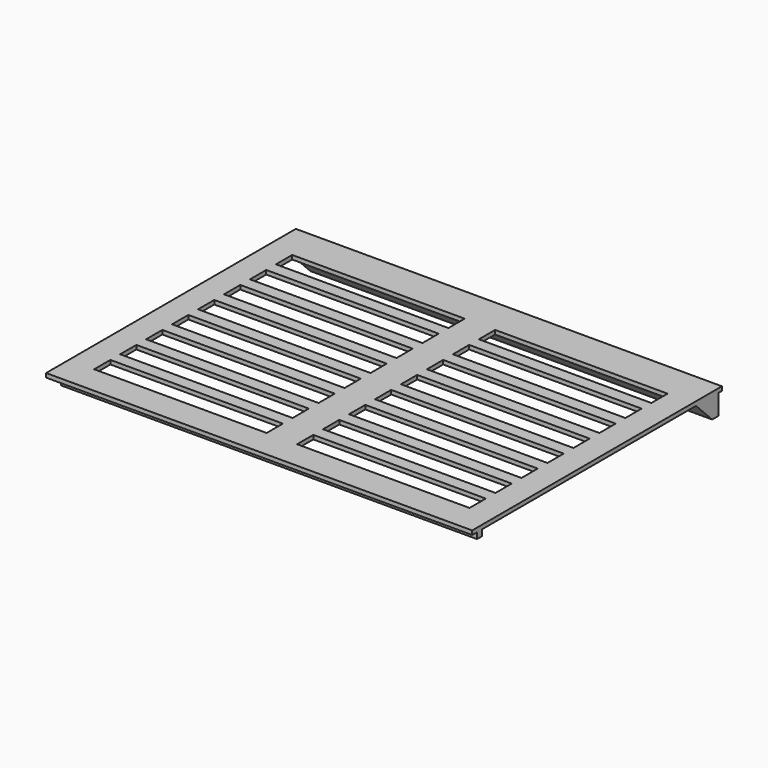
from build123d import *

# Parameters (mm, degrees)
BOX006_W               = 85
BOX006_H               = 10
BOX006_DEPTH           = 10
ARRAY_X_COUNT          = 2
ARRAY_X_PITCH          = 100
ARRAY_Y_COUNT          = 8
ARRAY_Y_PITCH          = 16
BOX004_W               = 220
BOX004_H               = 36
BOX004_DEPTH           = 10
BOX005_W               = 220
BOX005_H               = 10
BOX005_DEPTH           = 27
BOX003_W               = 198
BOX003_H               = 14.14
BOX003_DEPTH           = 14.14
BOX003_ROLL_ANGLE      = 45
CUT001_PLACEMENT_ANGLE = 180
BOX001_W               = 198
BOX001_H               = 4
BOX001_DEPTH           = 10
BOX002_W               = 205
BOX002_H               = 3
BOX002_DEPTH           = 3
BOX_W                  = 210
BOX_H                  = 153.85
BOX_DEPTH              = 2


with BuildPart() as array:
    # Box006 → Box006 (new body)
    with BuildSketch(Plane(origin=(12.5, 14, 0), x_dir=(1, 0, 0), z_dir=(0, 0, 1))):
        with Locations((42.5, 5)):
            Rectangle(BOX006_W, BOX006_H)
    extrude(amount=BOX006_DEPTH)

    # Array X: Array ×2


with BuildPart() as array_1:
    add(array.part)
    with Locations(*[(i * ARRAY_X_PITCH, 0, 0) for i in range(1, ARRAY_X_COUNT)]):
        add(array.part)

    # Array Y: Array ×8


with BuildPart() as array_2:
    add(array_1.part)
    with Locations(*[(0, i * ARRAY_Y_PITCH, 0) for i in range(1, ARRAY_Y_COUNT)]):
        add(array_1.part)


with BuildPart() as array_3:
    # Array placement: moved
    add(array_2.part.moved(Location((0, 0, -4))))


with BuildPart() as cube001:
    # Box004 → Box004 (new body)
    with BuildSketch(Plane(origin=(-6, 76, 40), x_dir=(1, 0, 0), z_dir=(0, 0, 1))):
        with Locations((110, 18)):
            Rectangle(BOX004_W, BOX004_H)
    extrude(amount=BOX004_DEPTH)


with BuildPart() as cube002:
    # Box005 → Box005 (new body)
    with BuildSketch(Plane(origin=(-7, 110, 72), x_dir=(1, 0, 0), z_dir=(0, 0, -1))):
        with Locations((110, 5)):
            Rectangle(BOX005_W, BOX005_H)
    extrude(amount=BOX005_DEPTH)


with BuildPart() as cut001:
    # Box003 → Box003 (new body)
    with BuildSketch(Plane.XY):
        with Locations((99, 7.07)):
            Rectangle(BOX003_W, BOX003_H)
    extrude(amount=BOX003_DEPTH)


with BuildPart() as cut001_1:
    # Box003 roll: moved
    add(cut001.part.rotate(Axis((0, 0, 0), (1, 0, 0)), BOX003_ROLL_ANGLE))


with BuildPart() as cut001_2:
    # Box003 placement: moved
    add(cut001_1.part.moved(Location((0, 100, 40))))

    # Cut: cut Cube002
    add(cube002.part, mode=Mode.SUBTRACT)

    # Cut001: cut Cube001
    add(cube001.part, mode=Mode.SUBTRACT)


with BuildPart() as cut001_3:
    # Cut001 placement: moved
    add(cut001_2.part.moved(Location((210, 51.85, 50))).rotate(Axis((210, 51.85, 50), (0, 1, 0)), CUT001_PLACEMENT_ANGLE))


with BuildPart() as fusion002002:
    # Box001 → Box001 (new body)
    with BuildSketch(Plane(origin=(12, 151.85, -10), x_dir=(1, 0, 0), z_dir=(0, 0, 1))):
        with Locations((99, 2)):
            Rectangle(BOX001_W, BOX001_H)
    extrude(amount=BOX001_DEPTH)

    # Fusion002002: union Cut001
    add(cut001_3.part)


with BuildPart() as fusion002002_1:
    # Fusion002002 placement: moved
    add(fusion002002.part.moved(Location((0, -4, 0))))


with BuildPart() as obj1:
    # Box002 → Box002 (new body)
    with BuildSketch(Plane(origin=(5, 3, -3), x_dir=(1, 0, 0), z_dir=(0, 0, 1))):
        with Locations((102.5, 1.5)):
            Rectangle(BOX002_W, BOX002_H)
    extrude(amount=BOX002_DEPTH)


with BuildPart() as cut002:
    # Box → Box (new body)
    with BuildSketch(Plane.XY):
        with Locations((105, 76.925)):
            Rectangle(BOX_W, BOX_H)
    extrude(amount=BOX_DEPTH)

    # Fusion: union obj1
    add(obj1.part)

    # Fusion002003: union Fusion002002
    add(fusion002002_1.part)

    # Cut002: cut Array
    add(array_3.part, mode=Mode.SUBTRACT)


solid = cut002.part
